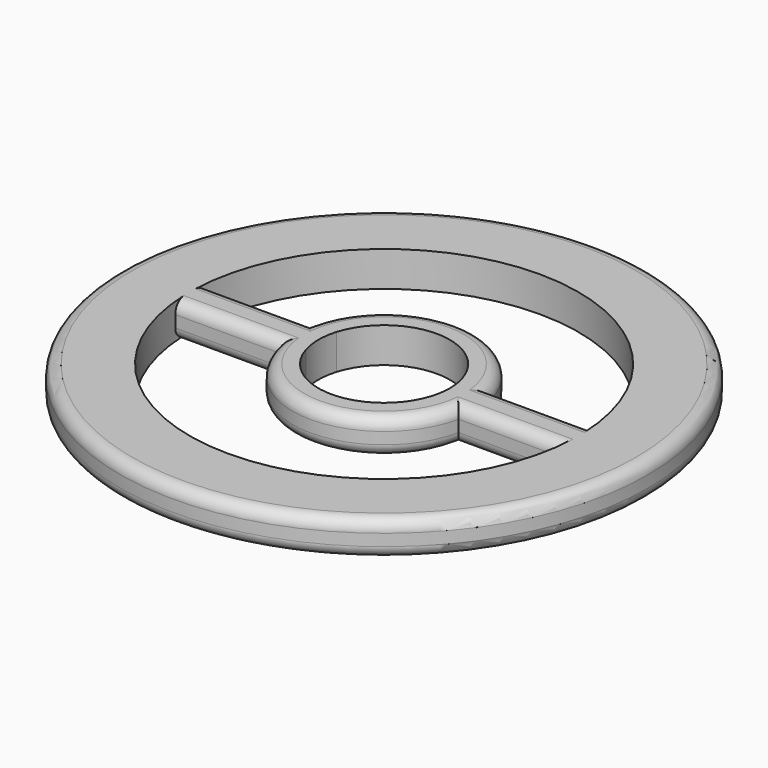
from build123d import *

# Parameters (mm, degrees)
F0_R     = 45
F1_DEPTH = 6
F2_R     = 2


with BuildPart() as f1:
    # F0 (on Top) → F1 (new body)
    with BuildSketch(Plane.XY):
        Circle(F0_R)
        with BuildLine():
            ThreePointArc((33.0021725985, 3.2475610053), (33.1217003385, 1.6257353391), (33.1615748828, 0))
            ThreePointArc((33.1615748828, 0), (33.1217003385, -1.6257353391), (33.0021725985, -3.2475610053))
            ThreePointArc((33.0021725985, -3.2475610053), (0, -33.1615748828), (-33.0021725985, -3.2475610053))
            ThreePointArc((-33.0021725985, -3.2475610053), (-33.1615748828, 0), (-33.0021725985, 3.2475610053))
            ThreePointArc((-33.0021725985, 3.2475610053), (0, 33.1615748828), (33.0021725985, 3.2475610053))
        make_face(mode=Mode.SUBTRACT)
        with BuildLine():
            Line((-15.2860053166, 3.2475610053), (-33.0021725985, 3.2475610053))
            ThreePointArc((-33.0021725985, 3.2475610053), (-33.1615748828, 0), (-33.0021725985, -3.2475610053))
            Line((-33.0021725985, -3.2475610053), (-15.2860053166, -3.2475610053))
            ThreePointArc((-15.2860053166, -3.2475610053), (-15.6271754013, 0), (-15.2860053166, 3.2475610053))
        make_face()
        with BuildLine():
            Line((-10.7188314436, 3.2475610053), (-15.2860053166, 3.2475610053))
            ThreePointArc((-15.2860053166, 3.2475610053), (-15.6271754013, 0), (-15.2860053166, -3.2475610053))
            Line((-15.2860053166, -3.2475610053), (-10.7188314436, -3.2475610053))
            ThreePointArc((-10.7188314436, -3.2475610053), (-11.2, 0), (-10.7188314436, 3.2475610053))
        make_face()
        with BuildLine():
            Line((10.7188314436, 3.2475610053), (15.2860053166, 3.2475610053))
            ThreePointArc((15.2860053166, 3.2475610053), (0, 15.6271754013), (-15.2860053166, 3.2475610053))
            Line((-15.2860053166, 3.2475610053), (-10.7188314436, 3.2475610053))
            ThreePointArc((-10.7188314436, 3.2475610053), (0, 11.2), (10.7188314436, 3.2475610053))
        make_face()
        with BuildLine():
            ThreePointArc((-15.2860053166, -3.2475610053), (0, -15.6271754013), (15.2860053166, -3.2475610053))
            Line((15.2860053166, -3.2475610053), (10.7188314436, -3.2475610053))
            ThreePointArc((10.7188314436, -3.2475610053), (0, -11.2), (-10.7188314436, -3.2475610053))
            Line((-10.7188314436, -3.2475610053), (-15.2860053166, -3.2475610053))
        make_face()
        with BuildLine():
            ThreePointArc((15.6271754013, 0), (15.5416488393, 1.6327162575), (15.2860053166, 3.2475610053))
            Line((15.2860053166, 3.2475610053), (10.7188314436, 3.2475610053))
            ThreePointArc((10.7188314436, 3.2475610053), (11.0790548371, 1.6415065993), (11.2, 0))
            ThreePointArc((11.2, 0), (11.0790548371, -1.6415065993), (10.7188314436, -3.2475610053))
            Line((10.7188314436, -3.2475610053), (15.2860053166, -3.2475610053))
            ThreePointArc((15.2860053166, -3.2475610053), (15.5416488393, -1.6327162575), (15.6271754013, 0))
        make_face()
        with BuildLine():
            ThreePointArc((33.0021725985, -3.2475610053), (33.1217003385, -1.6257353391), (33.1615748828, 0))
            ThreePointArc((33.1615748828, 0), (33.1217003385, 1.6257353391), (33.0021725985, 3.2475610053))
            Line((33.0021725985, 3.2475610053), (15.2860053166, 3.2475610053))
            ThreePointArc((15.2860053166, 3.2475610053), (15.5416488393, 1.6327162575), (15.6271754013, 0))
            ThreePointArc((15.6271754013, 0), (15.5416488393, -1.6327162575), (15.2860053166, -3.2475610053))
            Line((15.2860053166, -3.2475610053), (33.0021725985, -3.2475610053))
        make_face()
    extrude(amount=F1_DEPTH)

    # F2
    f2_edges = [f1.edges().sort_by_distance(p)[0] for p in [
        (-45, 0, 6),
        (-24.144089, -3.247561, 6),
        (0, -15.627175, 0),
        (24.144089, -3.247561, 6),
        (0, 15.627175, 6),
        (-24.144089, 3.247561, 6),
        (24.144089, 3.247561, 6),
        (-45, 0, 0),
        (0, 15.627175, 0),
        (24.144089, 3.247561, 0),
        (0, -15.627175, 6),
        (-24.144089, 3.247561, 0),
        (-24.144089, -3.247561, 0),
        (24.144089, -3.247561, 0),
    ]]
    fillet(f2_edges, radius=F2_R)


solid = f1.part
